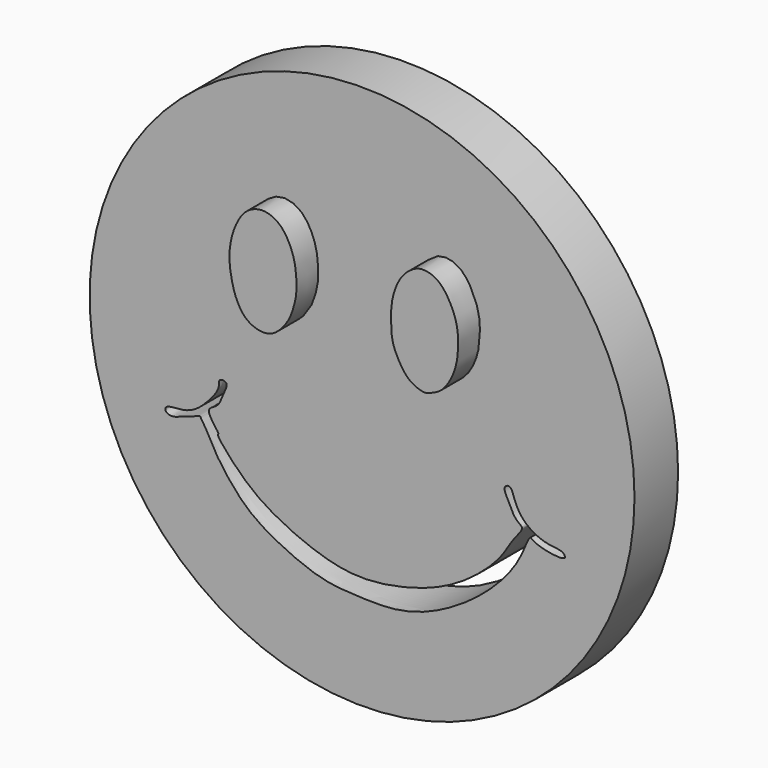
from build123d import *

# Parameters (mm, degrees)
F2_DEPTH = 15
F0_R     = 50
F3_DEPTH = 10
F5_DEPTH = 90.9


with BuildPart() as f2:
    # F1 (on face) → F2 (new body)
    with BuildSketch(Plane.XZ):
        with BuildLine():
            add(Edge.make_bspline(
                [(15.4004944488, 27.464106679), (16.1667812576, 27.4233171166), (18.565516757, 26.8784413725), (21.4251593779, 21.6586695218), (21.7177882397, 17.8466007397), (21.4764639543, 14.444248799), (20.4653285121, 11.504647987), (18.6490599189, 8.8787249215), (16.8180411203, 8.1053967554), (15.4032514926, 7.4761472919), (12.8221026902, 8.4911648257), (11.3237575912, 10.2622634794), (9.527217821, 13.4320639989), (9.2614328122, 16.7417585515), (9.3160946279, 20.6009055532), (10.4376067263, 23.9564060398), (12.029424222, 26.1114053822), (13.8999521459, 27.3473690547), (14.8492324648, 27.4934504375), (15.4004944488, 27.464106679)],
                knots=[0, 0, 0, 0, 0.058406547, 0.14073331, 0.209167393, 0.2717992239, 0.333040345, 0.393823362, 0.4413826173, 0.4830137084, 0.5378502269, 0.5911309709, 0.6558275824, 0.7190032974, 0.7867979873, 0.8514810204, 0.907805504, 0.9579826919, 1, 1, 1, 1], degree=3))
        make_face()
    extrude(amount=F2_DEPTH)


with BuildPart() as f2b:
    # F1 (on face) → F2, piece 2 (new body)
    with BuildSketch(Plane.XZ):
        with BuildLine():
            add(Edge.make_bspline(
                [(-14.1945267096, 27.4535622448), (-13.0860125146, 27.4320450154), (-10.8640651963, 26.4334988554), (-9.1005909658, 23.4685154897), (-8.0986596052, 20.4430086278), (-7.9333028007, 16.0250035891), (-8.4712484965, 14.0469510155), (-9.1381759994, 11.7121988324), (-10.6727086806, 9.4863979076), (-12.3423160664, 8.0779430508), (-13.8949466829, 7.7472399265), (-15.5397305472, 7.9165807106), (-17.6714369084, 9.0411520489), (-19.0597641389, 11.4231574821), (-19.7762440652, 13.5508079229), (-20.5933559747, 17.6859617835), (-19.997702432, 21.5581906299), (-18.8873141569, 24.2891870342), (-17.3330865836, 26.6480485037), (-15.2668200061, 27.4743763948), (-14.1945267096, 27.4535622448)],
                knots=[0, 0, 0, 0, 0.0609769136, 0.1217230479, 0.1824979843, 0.251814715, 0.2999351904, 0.3511174229, 0.4063905748, 0.455175717, 0.4960558567, 0.5383357119, 0.5894345938, 0.6437926423, 0.6942694854, 0.7623818483, 0.8289185941, 0.8858845807, 0.9410155179, 1, 1, 1, 1], degree=3))
        make_face()
    extrude(amount=F2_DEPTH)


with BuildPart() as f3:
    # F0 (on Front) → F3 (new body)
    with BuildSketch(Plane.XZ):
        Circle(F0_R)
    extrude(amount=F3_DEPTH)

    # F4 (on face) → F5 (cut, symmetric)
    with BuildSketch(Plane.XZ.offset(10)):
        with BuildLine():
            add(Edge.make_bspline(
                [(-28.124416247, -11.5212984383), (-28.1406970724, -10.863712929), (-26.3820859919, -10.3800037896), (-25.7435630451, -8.4314871694), (-24.7675449506, -6.5743671032), (-24.8811400084, -5.6673334792), (-26.4378463823, -5.5874668705), (-26.0336626735, -7.2248456727), (-27.8585168758, -9.5202086755), (-29.7171634042, -11.4995257448), (-32.3693550728, -13.0872508277), (-35.6122635386, -12.9150740938), (-36.2896723625, -13.7288769078), (-35.6563915406, -14.5854892355), (-33.8872816114, -14.5636322964), (-29.5752806003, -12.6023966612), (-29.6794032398, -13.0441126785), (-28.6124303918, -14.4006727246), (-27.1211143945, -17.7258220626), (-23.794545629, -22.2576674519), (-19.2575297843, -26.9808635069), (-8.1846476883, -32.1037793973), (-2.0344261224, -32.4282158978), (5.8382280092, -32.8547545169), (13.2038558979, -30.7269338479), (20.8253224964, -26.1143566676), (26.5325609208, -20.6725998772), (29.4863197433, -16.0710845567), (30.6952675839, -12.3150129101), (31.4954157061, -13.3364370974), (34.7179135116, -14.2455275845), (37.6608443004, -14.2623987298), (36.7735327581, -12.8652035144), (34.4470280363, -12.9449874034), (31.4793927973, -11.9163260601), (29.2672510251, -10.1277663052), (27.9645796758, -7.8330071547), (27.3679406901, -5.3559805604), (25.7371336192, -6.0791174567), (26.8959835525, -8.2549502609), (28.1232755709, -10.8988778532), (29.9836985946, -11.615127417), (27.3823411968, -14.2148612214), (25.5683673501, -18.2163762392), (17.6957981679, -25.0314735458), (8.4016510085, -28.4671547265), (-0.9488189114, -29.8287679375), (-9.0004783605, -27.7820878424), (-16.4237765345, -24.3443423857), (-21.5618830158, -20.8275825067), (-26.9171276556, -14.8628383885), (-26.0134689941, -14.5495630659), (-28.1024759206, -12.4074722261), (-28.124416247, -11.5212984383)],
                knots=[0, 0, 0, 0, 0.0146733627, 0.0300574806, 0.0453432503, 0.0541256463, 0.0648495143, 0.0765958019, 0.094459024, 0.1122271462, 0.1308795024, 0.1495406668, 0.1585661313, 0.1676531989, 0.1823698269, 0.2044563936, 0.2083456627, 0.2212715334, 0.2418582524, 0.2666724567, 0.29426416, 0.3307142068, 0.3575006696, 0.3865798549, 0.4159613669, 0.4476033025, 0.4773565825, 0.5029856112, 0.5213934351, 0.5300901565, 0.5503105433, 0.5663686199, 0.5760629085, 0.5920234033, 0.6109245977, 0.6286085187, 0.6462758595, 0.6616379315, 0.6717887074, 0.6872724049, 0.7059599174, 0.7179391829, 0.7354807029, 0.7583190809, 0.791901432, 0.8257677349, 0.8579458806, 0.8884002318, 0.9181326419, 0.9466490082, 0.9743527716, 0.9802259186, 1, 1, 1, 1], degree=3))
        make_face()
    extrude(amount=F5_DEPTH, both=True, mode=Mode.SUBTRACT)


solid = Compound([f2.part, f2b.part, f3.part])
